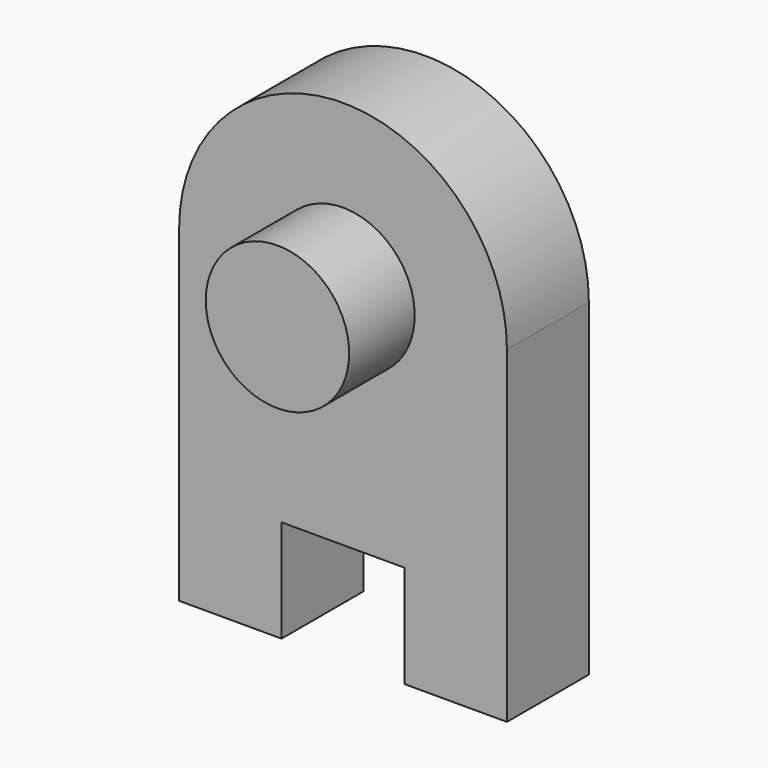
from build123d import *

# Parameters (mm, degrees)
F1_DEPTH = 25
F2_DEPTH = 45


with BuildPart() as f1:
    # F0 (on Front) → F1 (new body)
    with BuildSketch(Plane.XZ):
        with BuildLine():
            ThreePointArc((80, 80), (40, 120), (0, 80))
            Line((0, 80), (22.5, 80))
            ThreePointArc((22.5, 80), (40, 97.5), (57.5, 80))
            Line((57.5, 80), (80, 80))
        make_face()
        with BuildLine():
            Line((22.5, 80), (0, 80))
            Line((0, 80), (0, 0))
            Line((0, 0), (25, 0))
            Line((25, 0), (25, 25))
            Line((25, 25), (55, 25))
            Line((55, 25), (55, 0))
            Line((55, 0), (80, 0))
            Line((80, 0), (80, 80))
            Line((80, 80), (57.5, 80))
            ThreePointArc((57.5, 80), (40, 62.5), (22.5, 80))
        make_face()
    extrude(amount=F1_DEPTH)

    # F0 (on Front) → F2 (join)
    with BuildSketch(Plane.XZ):
        with BuildLine():
            ThreePointArc((57.5, 80), (40, 97.5), (22.5, 80))
            ThreePointArc((22.5, 80), (40, 62.5), (57.5, 80))
        make_face()
    extrude(amount=F2_DEPTH)


solid = f1.part
